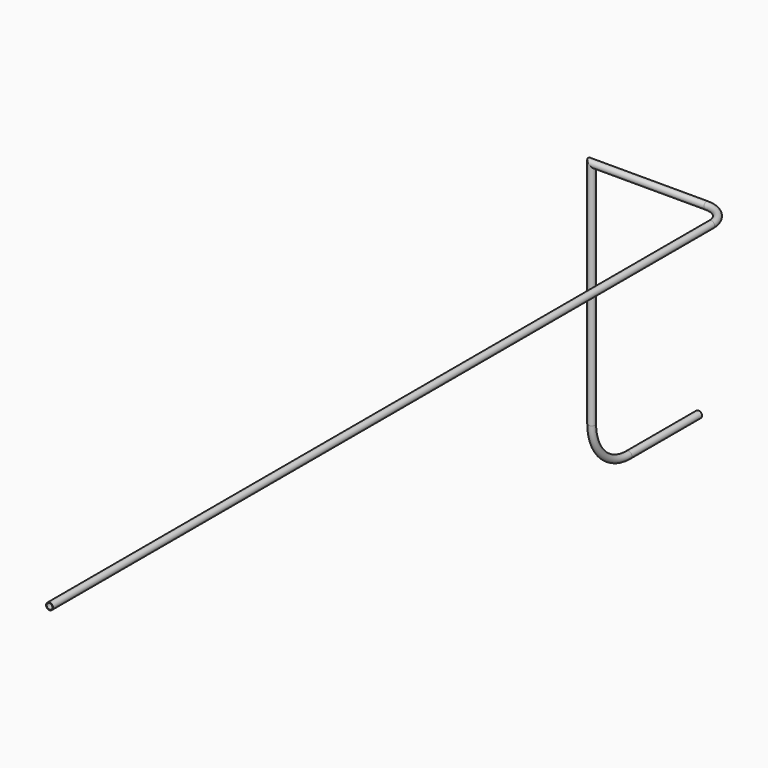
from build123d import *

# Parameters (mm, degrees)
F0_R   = 15
F0_R_2 = 12.5


with BuildPart() as f4:
    # F4: sweep along a path in F1, F3
    with BuildLine(Plane.XY) as f4_path:
        Line((0, 0), (0, 3600))
        ThreePointArc((0, 3600), (-29.2893218813, 3670.7106781187), (-100, 3700))
        Line((-100, 3700), (-600, 3700))
    with BuildLine(Plane.YZ.offset(-600)) as f4_path_2:
        Line((3700, 0), (3700, -1000))
        ThreePointArc((3700, -1000), (3758.5786437627, -1141.4213562373), (3900, -1200))
        Line((3900, -1200), (4281.8653106689, -1200))
    # F0 (on Front) → F4 (sweep)
    with BuildSketch(Plane.XZ):
        Circle(F0_R)
        Circle(F0_R_2, mode=Mode.SUBTRACT)
    sweep(path=f4_path.line + f4_path_2.line, transition=Transition.RIGHT)


solid = f4.part
